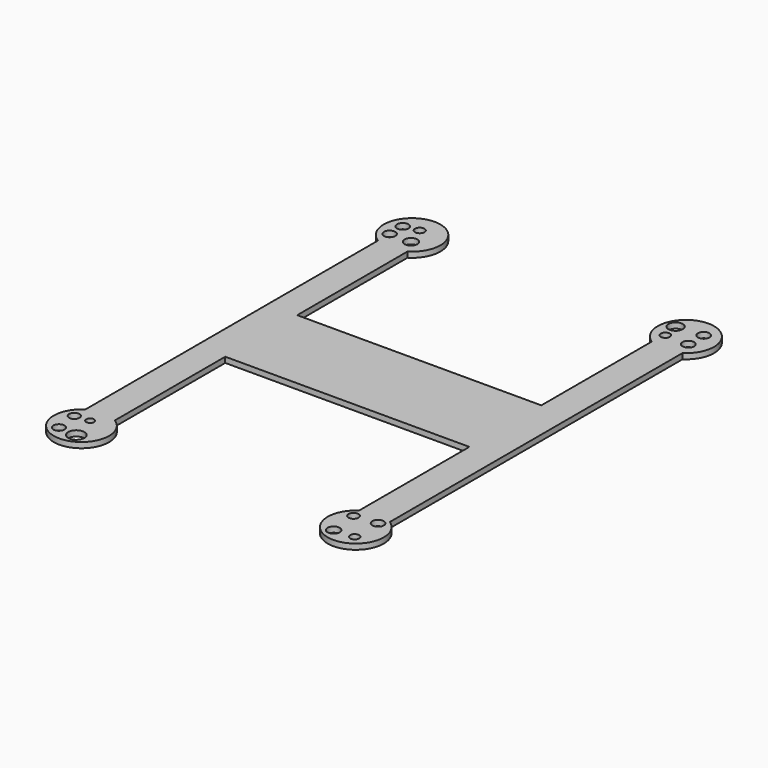
from build123d import *

# Parameters (mm, degrees)
F0_R     = 2.825681
F0_R_2   = 4.106175
F0_R_3   = 2.633884
F0_R_4   = 1.979989
F0_R_5   = 2.894334
F0_R_6   = 3.256127
F0_R_7   = 2.425647
F0_R_8   = 2.316591
F0_R_9   = 3.635961
F0_R_10  = 2.934407
F0_R_11  = 3.112248
F0_R_12  = 2.316604
F0_R_13  = 2.558261
F1_DEPTH = 2.794


with BuildPart() as f1:
    # F0 (on Top) → F1 (new body)
    with BuildSketch(Plane.XY):
        with BuildLine():
            Line((77.282588, -22.826083), (77.282588, 22.826083))
            Line((77.282588, 22.826083), (61.630418, 22.826083))
            Line((61.630418, 22.826083), (-62.282588, 22.826083))
            Line((-62.282588, 22.826083), (-62.282588, 92.826083))
            ThreePointArc((-62.282588, 92.826083), (-69.782588, 119.46184), (-77.282588, 92.826083))
            Line((-77.282588, 92.826083), (-77.282588, 22.826083))
            Line((-77.282588, 22.826083), (-77.282588, -22.826083))
            Line((-77.282588, -22.826083), (-77.282588, -92.826083))
            ThreePointArc((-77.282588, -92.826083), (-69.782588, -118.714864), (-62.282588, -92.826083))
            Line((-62.282588, -92.826083), (-62.282588, -22.826083))
            Line((-62.282588, -22.826083), (61.630418, -22.826083))
            Line((61.630418, -22.826083), (77.282588, -22.826083))
        make_face()
        with Locations((-75.795345, -111.477017)):
            Circle(F0_R, mode=Mode.SUBTRACT)
        with Locations((-66.388763, -112.200603)):
            Circle(F0_R_2, mode=Mode.SUBTRACT)
        with Locations((-77.242516, -99.899687)):
            Circle(F0_R_3, mode=Mode.SUBTRACT)
        with Locations((-69.782588, -99.176109)):
            Circle(F0_R_4, mode=Mode.SUBTRACT)
        with Locations((-77.242516, 100.171089)):
            Circle(F0_R_5, mode=Mode.SUBTRACT)
        with Locations((-66.388763, 100.171089)):
            Circle(F0_R_6, mode=Mode.SUBTRACT)
        with Locations((-77.242516, 108.492292)):
            Circle(F0_R_5, mode=Mode.SUBTRACT)
        with Locations((-69.782588, 109.939463)):
            Circle(F0_R_7, mode=Mode.SUBTRACT)
        with BuildLine():
            Line((61.630418, 22.826083), (77.282588, 22.826083))
            Line((77.282588, 22.826083), (77.282588, 92.826083))
            ThreePointArc((77.282588, 92.826083), (69.456503, 119.065138), (61.630418, 92.826083))
            Line((61.630418, 92.826083), (61.630418, 22.826083))
        make_face()
        with Locations((62.409062, 100.532882)):
            Circle(F0_R_8, mode=Mode.SUBTRACT)
        with Locations((60.961891, 108.854085)):
            Circle(F0_R_9, mode=Mode.SUBTRACT)
        with Locations((74.348181, 100.171089)):
            Circle(F0_R_10, mode=Mode.SUBTRACT)
        with Locations((74.348181, 109.939463)):
            Circle(F0_R_10, mode=Mode.SUBTRACT)
        with BuildLine():
            Line((77.282588, -92.826083), (77.282588, -22.826083))
            Line((77.282588, -22.826083), (61.630418, -22.826083))
            Line((61.630418, -22.826083), (61.630418, -92.826083))
            ThreePointArc((61.630418, -92.826083), (69.456503, -118.891843), (77.282588, -92.826083))
        make_face()
        with Locations((64.218014, -112.200603)):
            Circle(F0_R_11, mode=Mode.SUBTRACT)
        with Locations((74.348181, -111.477017)):
            Circle(F0_R_12, mode=Mode.SUBTRACT)
        with Locations((62.770844, -97.728938)):
            Circle(F0_R_13, mode=Mode.SUBTRACT)
        with Locations((74.348181, -96.64356)):
            Circle(F0_R_10, mode=Mode.SUBTRACT)
    extrude(amount=F1_DEPTH)


solid = f1.part
